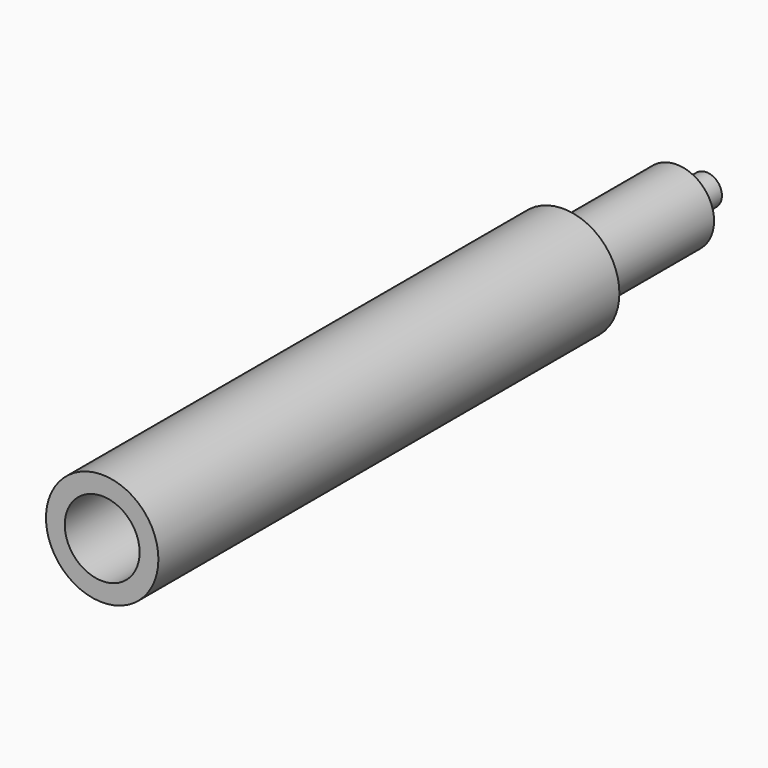
from build123d import *

# Parameters (mm, degrees)
F0_R     = 476.25
F0_R_2   = 317.014892
F1_DEPTH = 4881.88
F0_R_3   = 131.684276
F2_DEPTH = 1201.42
F3_DEPTH = 1516.38


with BuildPart() as f1:
    # F0 (on Front) → F1 (new body)
    with BuildSketch(Plane.XZ):
        with Locations((-463.18385, 650.683701)):
            Circle(F0_R)
        with Locations((-463.18385, 650.683701)):
            Circle(F0_R_2, mode=Mode.SUBTRACT)
    extrude(amount=F1_DEPTH)

    # F0 (on Front) → F2 (join, symmetric)
    with BuildSketch(Plane.XZ):
        with Locations((-463.18385, 650.683701)):
            Circle(F0_R_2)
        with Locations((-463.18385, 650.683701)):
            Circle(F0_R_3, mode=Mode.SUBTRACT)
    extrude(amount=F2_DEPTH, both=True)

    # F0 (on Front) → F3 (join)
    with BuildSketch(Plane.XZ):
        with Locations((-463.18385, 650.683701)):
            Circle(F0_R_3)
    extrude(amount=-F3_DEPTH)


solid = f1.part
